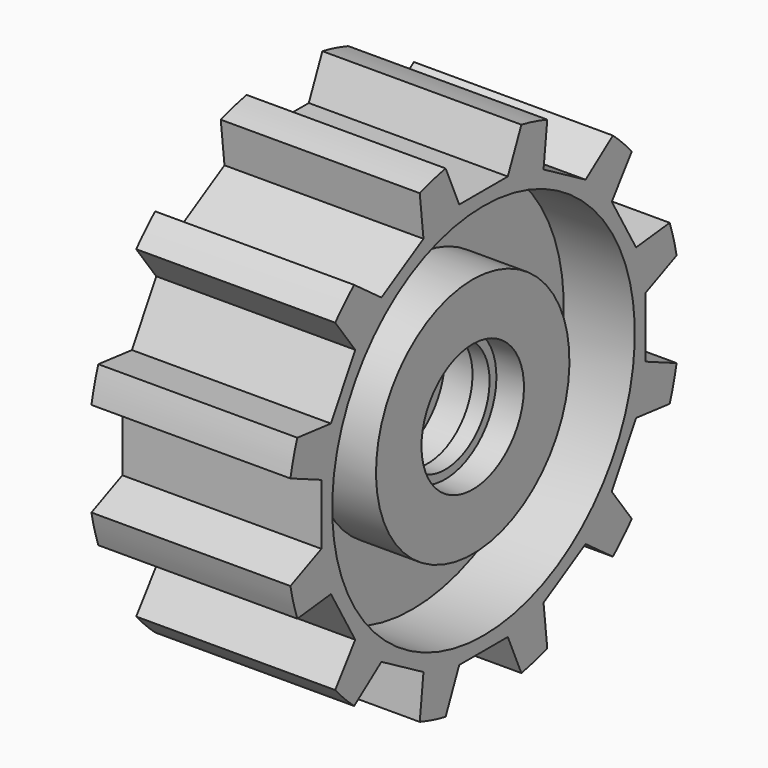
from build123d import *

# Parameters (mm, degrees)
F3_DEPTH = 45.72
F4_COUNT = 12


with BuildPart() as f1:
    # F0 (on Front) → F1 (revolve)
    with BuildSketch(Plane.XZ):
        Polygon((44.45, 17.0215574244), (44.45, 42.4215574244), (-44.45, 42.4215574244), (-44.45, 17.0215574244), (-10.4945171624, 17.0215574244), (-10.4945171624, -13.4584425756), (-39.6297698409, -13.4584425756), (-39.6297698409, -38.8584425756), (-22.9390684722, -38.8584425756), (-22.9390684722, -42.6684425756), (-15.3190684722, -42.6684425756), (-15.3190684722, -38.8584425756), (-4.2934667461, -38.8584425756), (-4.2934667461, -55.5271957506), (4.2934667461, -55.5271957506), (4.2934667461, -38.8584425756), (19.6994334923, -38.8584425756), (19.6994334923, -42.6684425756), (27.3194334923, -42.6684425756), (27.3194334923, -38.8584425756), (39.6297698409, -38.8584425756), (39.6297698409, -13.4584425756), (12.710894458, -13.4584425756), (12.710894458, 17.0215574244), align=None)
    revolve(axis=Axis((2.7257320471, 0, -67.4719884992), (1, 0, 0)))

    # F2 (on Right) → F3 (cut, symmetric)
    with BuildSketch(Plane.YZ):
        Polygon((-13.5587146506, 23.0656899512), (13.5587146506, 23.0656899512), (24.6522054076, 48.3342073858), (-24.6522054076, 48.3342073858), align=None)
    f3 = extrude(amount=F3_DEPTH, both=True, mode=Mode.SUBTRACT)

    # F4: F3 ×12 about axis
    f4_axis = Axis((44.45, 0, -67.4719884992), (1, 0, 0))
    for i in range(1, F4_COUNT):
        add(f3.rotate(f4_axis, i * 360 / F4_COUNT), mode=Mode.SUBTRACT)


solid = f1.part
